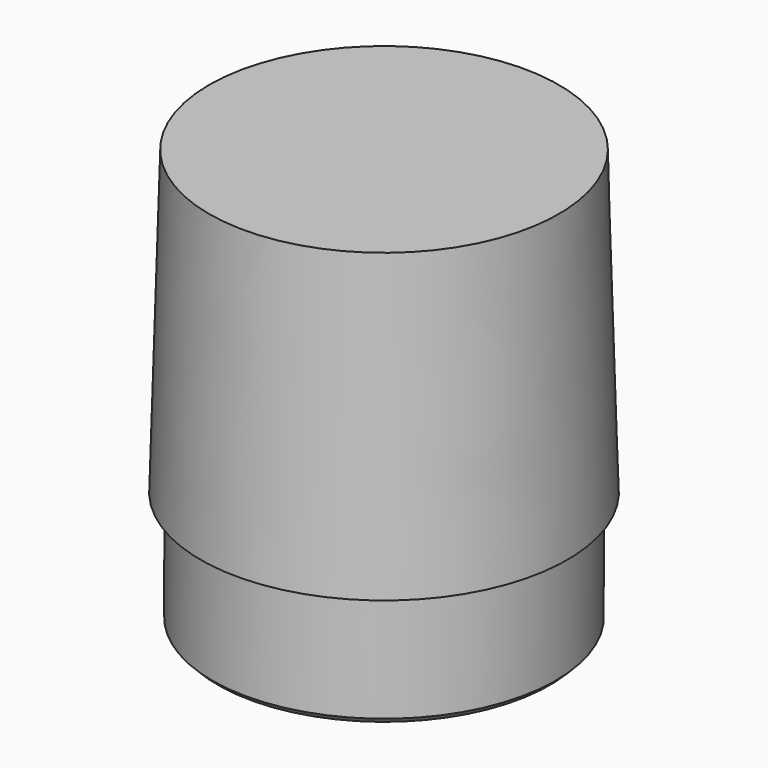
from build123d import *

# Parameters (mm, degrees)
F2_SIZE = 0.5


with BuildPart() as f1:
    # F0 (on Front) → F1 (revolve)
    with BuildSketch(Plane.XZ):
        with BuildLine():
            Line((-12.959872, 0), (0, 0))
            Line((0, 0), (0, 1))
            Line((0, 1), (-15.071469, 1))
            Line((-15.071469, 1), (-15.814245, -24.997144))
            Line((-15.814245, -24.997144), (-14.799996, -24.997144))
            Line((-14.799996, -24.997144), (-14.799996, -34.997144))
            Line((-14.799996, -34.997144), (-13.75, -35))
            Line((-13.75, -35), (-13.75, -0.790128))
            ThreePointArc((-13.75, -0.790128), (-13.518577, -0.231423), (-12.959872, 0))
        make_face()
    revolve(axis=Axis((0, 0, 35.289533), (0, 0, 1)))

    # F2
    f2_edges = [f1.edges().sort_by_distance(p)[0] for p in [
        (14.799996, 0, -34.997144),
    ]]
    chamfer(f2_edges, length=F2_SIZE)


solid = f1.part
